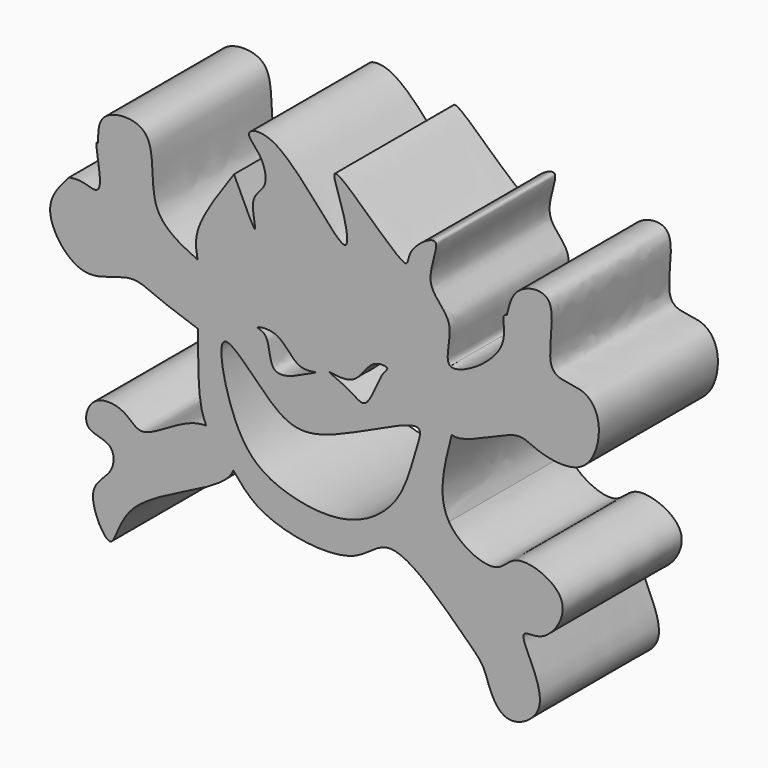
from build123d import *

# Parameters (mm, degrees)
F1_DEPTH = 25.4
F2_DEPTH = 25.4


with BuildPart() as f1:
    # F0 (on Front) → F1 (new body)
    with BuildSketch(Plane.XZ):
        with BuildLine():
            add(Edge.make_bspline(
                [(-28.582599479, 4.4030261133), (-28.911487021, 5.0942899), (-30.0052298315, 7.9022829332), (-29.9955920295, 14.0491369133), (-29.988611117, 18.5014642775)],
                knots=[0.1178498577, 0.1178498577, 0.1178498577, 0.1178498577, 0.3610355427, 1, 1, 1, 1], degree=3))
            add(Edge.make_bspline(
                [(-23.9628069103, -0.8034296916), (-23.1271905646, 1.5314372534), (-25.6319657929, 4.2948866861), (-28.5825994784, 4.4030261149)],
                knots=[0.9068772059, 0.9068772059, 0.9068772059, 0.9068772059, 0.9998219668, 0.9998219668, 0.9998219668, 0.9998219668], degree=3))
            add(Edge.make_bspline(
                [(-23.9628069103, -0.8034296916), (-22.4847151214, -2.6236284733), (-18.9627948515, -6.9607035001), (-2.7068275756, -9.1810662592), (0.7204972747, -3.6050401032), (3.1926396769, -3.8801059127)],
                knots=[0, 0, 0, 0, 0.065562546, 0.1562190262, 0.220557091, 0.220557091, 0.220557091, 0.220557091], degree=3))
            add(Edge.make_bspline(
                [(3.1926396769, -3.8801059127), (6.4148901341, -1.4400628861), (9.6371405913, 0.9999801405), (12.8593910486, 3.4400231671)],
                knots=[0, 0, 0, 0, 12.1256081013, 12.1256081013, 12.1256081013, 12.1256081013], degree=3))
            add(Edge.make_bspline(
                [(12.8593910486, 3.4400231671), (10.7825680091, 6.8989582609), (12.0578283637, 11.7777213579), (13.3330887184, 16.6564844549)],
                knots=[0.9139230876, 0.9139230876, 0.9139230876, 0.9139230876, 1, 1, 1, 1], degree=3))
            add(Edge.make_bspline(
                [(13.3330887184, 16.6564844549), (11.1984371271, 17.4167258477), (12.1384958303, 22.170044938), (13.0785545334, 26.9233640283)],
                knots=[0.8779620342, 0.8779620342, 0.8779620342, 0.8779620342, 1, 1, 1, 1], degree=3))
            add(Edge.make_bspline(
                [(-23.8349661231, 43.7355972826), (-22.1234160519, 40.035275174), (-19.1749737388, 33.6608275544), (-21.4679533769, 41.5475102485), (-17.8278071698, 43.3254765071), (-18.8928188241, 48.1443694392), (-22.7323708409, 51.0421526969), (-15.6297179351, 52.8101505148), (-3.2616201651, 34.2642928372), (-5.0259337502, 44.649058171), (-9.2691896796, 54.0248863547), (6.5308422815, 37.0873913861), (5.4437529608, 42.2651916898), (12.8023722691, 47.2658531715), (7.6834538512, 37.364344669), (14.7537805978, 34.1724137284), (11.9749720842, 27.6298672373), (13.0785545334, 26.9233640283)],
                knots=[0, 0, 0, 0, 0.0659734559, 0.1136507381, 0.1573332044, 0.206142926, 0.2485724992, 0.2968259846, 0.392478722, 0.4473255586, 0.4991821025, 0.5903292506, 0.6248044229, 0.6779176661, 0.7365689993, 0.7958190288, 0.8538262087, 0.8538262087, 0.8538262087, 0.8538262087], degree=3))
            add(Edge.make_bspline(
                [(-30.0719812512, 28.8729276508), (-30.2978460259, 30.1658254111), (-30.9083130621, 33.6602678936), (-26.5688714256, 39.8414016948), (-23.8349661231, 43.7355972826)],
                knots=[0, 0, 0, 0, 0.3699868482, 1, 1, 1, 1], degree=3))
            add(Edge.make_bspline(
                [(-30.0719812512, 28.8729276508), (-30.0441912065, 25.415773193), (-30.0164011618, 21.9586187353), (-29.988611117, 18.5014642775)],
                knots=[0, 0, 0, 0, 10.3717984498, 10.3717984498, 10.3717984498, 10.3717984498], degree=3))
        make_face()
        with BuildLine():
            add(Edge.make_bspline(
                [(-25.4788380116, 18.0652979761), (-24.2482389679, 18.7511528309), (-17.2105382246, 10.114528047), (-9.6740831364, 7.2083109071), (9.5444728611, 18.8378479878), (6.8680885331, 11.7968176965), (5.0221131526, 3.3915421383), (-3.9917236002, -3.3205162606), (-16.3362461319, -1.5181207662), (-23.9208000239, 3.8746005054), (-26.8484679776, 17.3019564425), (-25.4788380116, 18.0652979761)],
                knots=[0, 0, 0, 0, 0.1109125985, 0.2181942629, 0.3644763463, 0.4284646992, 0.5340223955, 0.6463908952, 0.7649285585, 0.8765566906, 1, 1, 1, 1], degree=3))
        make_face(mode=Mode.SUBTRACT)
        with BuildLine():
            add(Edge.make_bspline(
                [(-19.7976548225, 22.0105648041), (-19.7814961527, 22.183479321), (-15.7538623988, 22.979082497), (-13.3980297055, 17.4991987935), (-8.3316390173, 19.0399090443), (-12.7618707406, 17.2537391899), (-13.5908380486, 16.6574633288), (-18.1039968661, 15.4090909316), (-17.5330430956, 21.77203716), (-19.8088858998, 21.8903806343), (-19.7976548225, 22.0105648041)],
                knots=[0, 0, 0, 0, 0.12529807, 0.2971831537, 0.4121645629, 0.5326609759, 0.6257220395, 0.7526580825, 0.9129116237, 1, 1, 1, 1], degree=3))
        make_face(mode=Mode.SUBTRACT)
        with BuildLine():
            add(Edge.make_bspline(
                [(2.2958370391, 23.1152400374), (2.1030435689, 23.3604910785), (-0.8936527624, 23.6355494928), (-2.8085706536, 18.097866935), (-9.7798582845, 20.0003943617), (-3.7836758606, 17.8273615059), (-1.0441252793, 15.0806850733), (1.1089976645, 22.0982189794), (2.4414778783, 22.9299714836), (2.2958370391, 23.1152400374)],
                knots=[0, 0, 0, 0, 0.1161844206, 0.2934352911, 0.4409270275, 0.5911375117, 0.7225059225, 0.9122314854, 1, 1, 1, 1], degree=3))
        make_face(mode=Mode.SUBTRACT)
        with BuildLine():
            add(Edge.make_bspline(
                [(-23.9628069103, -0.8034296916), (-23.1271905646, 1.5314372534), (-25.6319657929, 4.2948866861), (-28.5825994784, 4.4030261149)],
                knots=[0.9068772059, 0.9068772059, 0.9068772059, 0.9068772059, 0.9998219668, 0.9998219668, 0.9998219668, 0.9998219668], degree=3))
            add(Edge.make_bspline(
                [(-28.5825994784, 4.4030261149), (-28.5882513379, 4.4032332531), (-28.5939048334, 4.4034306488), (-28.5995599444, 4.4036182805)],
                knots=[0.9998219668, 0.9998219668, 0.9998219668, 0.9998219668, 1, 1, 1, 1], degree=3))
            add(Edge.make_bspline(
                [(-28.5995599444, 4.4036182805), (-32.4159872528, 4.5302439997), (-39.5312221028, -2.2225854998), (-42.0740894627, 2.4664471475), (-48.3464898377, 3.1083557022), (-50.0265156573, -3.316695786), (-44.2133146194, -3.0713805788), (-44.1799975211, -8.3461361029), (-49.8571373325, -11.1148907182), (-44.1941729271, -21.8883720333), (-43.5478726947, -9.2126358837), (-25.4083383754, -4.8425125235), (-23.9628069103, -0.8034296916)],
                knots=[0, 0, 0, 0, 0.1201480825, 0.1877951212, 0.2677137642, 0.3400222528, 0.4107331107, 0.4780527746, 0.5600081308, 0.6519731782, 0.7460922032, 0.9068772059, 0.9068772059, 0.9068772059, 0.9068772059], degree=3))
        make_face()
        with BuildLine():
            add(Edge.make_bspline(
                [(-29.988611117, 18.5014642775), (-32.4318014786, 19.3267206558), (-36.8978129875, 20.835241867), (-41.7690588713, 23.4533807082), (-49.914200871, 18.3055162376), (-57.3367375081, 28.122026636), (-53.7010795986, 32.1900146088), (-51.9913434982, 34.1030620039)],
                knots=[0, 0, 0, 0, 0.2022869102, 0.3697688412, 0.5786924368, 0.8018722421, 1, 1, 1, 1], degree=3))
            add(Edge.make_bspline(
                [(-30.0719812512, 28.8729276508), (-30.0441912065, 25.415773193), (-30.0164011618, 21.9586187353), (-29.988611117, 18.5014642775)],
                knots=[0, 0, 0, 0, 10.3717984498, 10.3717984498, 10.3717984498, 10.3717984498], degree=3))
            add(Edge.make_bspline(
                [(-47.0578894019, 40.8161431551), (-47.0635076746, 42.562094121), (-47.07580191, 46.3826869267), (-36.2588625889, 46.9625588574), (-39.2627310899, 33.2406538651), (-33.06199153, 30.2938722424), (-30.0719812512, 28.8729276508)],
                knots=[0, 0, 0, 0, 0.196870276, 0.430803141, 0.7255320204, 1, 1, 1, 1], degree=3))
            add(Edge.make_bspline(
                [(-51.9913434982, 34.1030620039), (-51.2417970104, 34.2130384386), (-49.7187310786, 34.4365087152), (-45.4207174884, 32.3698466924), (-47.8243292334, 41.2127143604), (-47.1668561048, 40.8725246934), (-47.0578894019, 40.8161431551)],
                knots=[0, 0, 0, 0, 0.2489720601, 0.5059070635, 0.9181112111, 1, 1, 1, 1], degree=3))
        make_face()
        with BuildLine():
            add(Edge.make_bspline(
                [(3.1926396769, -3.8801059127), (6.4148901341, -1.4400628861), (9.6371405913, 0.9999801405), (12.8593910486, 3.4400231671)],
                knots=[0, 0, 0, 0, 12.1256081013, 12.1256081013, 12.1256081013, 12.1256081013], degree=3))
            add(Edge.make_bspline(
                [(3.1926396769, -3.8801059127), (6.7616772776, -4.2772190465), (15.6851390406, -13.2600327404), (18.8947435255, -16.1037689885), (19.7846499278, -19.8684619524), (22.7850550196, -24.4901905614), (30.8113617578, -19.7693740854), (25.7205518361, -11.3333663481), (25.3358020166, -8.5680816914), (29.4147236184, -9.6887628706), (35.1705948736, -1.195959346), (23.8561206959, 3.1892571316), (21.3813710577, -2.6340719945), (14.568059024, 0.5942479076), (12.8593910486, 3.4400231671)],
                knots=[0.220557091, 0.220557091, 0.220557091, 0.220557091, 0.3134421012, 0.3645454234, 0.4094898172, 0.4591653958, 0.5180827509, 0.5881577264, 0.6197840518, 0.6611552335, 0.7245629334, 0.7926187016, 0.8431048904, 0.9139230876, 0.9139230876, 0.9139230876, 0.9139230876], degree=3))
        make_face()
        with BuildLine():
            add(Edge.make_bspline(
                [(13.0785545334, 26.9233640283), (14.5064774807, 26.0092210522), (23.9603964726, 31.6400403992), (21.629409463, 37.4721388559), (22.506221888, 37.6554682472), (22.7397531271, 37.7042964101)],
                knots=[0.8538262087, 0.8538262087, 0.8538262087, 0.8538262087, 0.9288815736, 0.9810582358, 1, 1, 1, 1], degree=3))
            add(Edge.make_bspline(
                [(13.3330887184, 16.6564844549), (11.1984371271, 17.4167258477), (12.1384958303, 22.170044938), (13.0785545334, 26.9233640283)],
                knots=[0.8779620342, 0.8779620342, 0.8779620342, 0.8779620342, 1, 1, 1, 1], degree=3))
            add(Edge.make_bspline(
                [(22.7397531271, 37.7042964101), (23.1357953088, 39.4418009547), (23.921419911, 42.8884699713), (32.5413952836, 44.10398542), (28.0081552157, 30.0763669909), (36.3101337873, 31.5250508533), (39.4578196622, 26.1428454393), (36.5470456063, 17.0719122464), (27.2628689451, 18.9625275082), (24.3693947813, 21.4747220023), (15.552756228, 15.865965231), (13.3330887184, 16.6564844549)],
                knots=[0, 0, 0, 0, 0.085630468, 0.1698642354, 0.290058632, 0.3780578218, 0.4653372905, 0.5707828182, 0.6761612965, 0.7510637111, 0.8779620342, 0.8779620342, 0.8779620342, 0.8779620342], degree=3))
        make_face()
    extrude(amount=F1_DEPTH)

    # F0 (on Front) → F2 (join)
    with BuildSketch(Plane.XZ):
        with BuildLine():
            add(Edge.make_bspline(
                [(-28.582599479, 4.4030261133), (-28.911487021, 5.0942899), (-30.0052298315, 7.9022829332), (-29.9955920295, 14.0491369133), (-29.988611117, 18.5014642775)],
                knots=[0.1178498577, 0.1178498577, 0.1178498577, 0.1178498577, 0.3610355427, 1, 1, 1, 1], degree=3))
            add(Edge.make_bspline(
                [(-23.9628069103, -0.8034296916), (-23.1271905646, 1.5314372534), (-25.6319657929, 4.2948866861), (-28.5825994784, 4.4030261149)],
                knots=[0.9068772059, 0.9068772059, 0.9068772059, 0.9068772059, 0.9998219668, 0.9998219668, 0.9998219668, 0.9998219668], degree=3))
            add(Edge.make_bspline(
                [(-23.9628069103, -0.8034296916), (-22.4847151214, -2.6236284733), (-18.9627948515, -6.9607035001), (-2.7068275756, -9.1810662592), (0.7204972747, -3.6050401032), (3.1926396769, -3.8801059127)],
                knots=[0, 0, 0, 0, 0.065562546, 0.1562190262, 0.220557091, 0.220557091, 0.220557091, 0.220557091], degree=3))
            add(Edge.make_bspline(
                [(3.1926396769, -3.8801059127), (6.4148901341, -1.4400628861), (9.6371405913, 0.9999801405), (12.8593910486, 3.4400231671)],
                knots=[0, 0, 0, 0, 12.1256081013, 12.1256081013, 12.1256081013, 12.1256081013], degree=3))
            add(Edge.make_bspline(
                [(12.8593910486, 3.4400231671), (10.7825680091, 6.8989582609), (12.0578283637, 11.7777213579), (13.3330887184, 16.6564844549)],
                knots=[0.9139230876, 0.9139230876, 0.9139230876, 0.9139230876, 1, 1, 1, 1], degree=3))
            add(Edge.make_bspline(
                [(13.3330887184, 16.6564844549), (11.1984371271, 17.4167258477), (12.1384958303, 22.170044938), (13.0785545334, 26.9233640283)],
                knots=[0.8779620342, 0.8779620342, 0.8779620342, 0.8779620342, 1, 1, 1, 1], degree=3))
            add(Edge.make_bspline(
                [(-23.8349661231, 43.7355972826), (-22.1234160519, 40.035275174), (-19.1749737388, 33.6608275544), (-21.4679533769, 41.5475102485), (-17.8278071698, 43.3254765071), (-18.8928188241, 48.1443694392), (-22.7323708409, 51.0421526969), (-15.6297179351, 52.8101505148), (-3.2616201651, 34.2642928372), (-5.0259337502, 44.649058171), (-9.2691896796, 54.0248863547), (6.5308422815, 37.0873913861), (5.4437529608, 42.2651916898), (12.8023722691, 47.2658531715), (7.6834538512, 37.364344669), (14.7537805978, 34.1724137284), (11.9749720842, 27.6298672373), (13.0785545334, 26.9233640283)],
                knots=[0, 0, 0, 0, 0.0659734559, 0.1136507381, 0.1573332044, 0.206142926, 0.2485724992, 0.2968259846, 0.392478722, 0.4473255586, 0.4991821025, 0.5903292506, 0.6248044229, 0.6779176661, 0.7365689993, 0.7958190288, 0.8538262087, 0.8538262087, 0.8538262087, 0.8538262087], degree=3))
            add(Edge.make_bspline(
                [(-30.0719812512, 28.8729276508), (-30.2978460259, 30.1658254111), (-30.9083130621, 33.6602678936), (-26.5688714256, 39.8414016948), (-23.8349661231, 43.7355972826)],
                knots=[0, 0, 0, 0, 0.3699868482, 1, 1, 1, 1], degree=3))
            add(Edge.make_bspline(
                [(-30.0719812512, 28.8729276508), (-30.0441912065, 25.415773193), (-30.0164011618, 21.9586187353), (-29.988611117, 18.5014642775)],
                knots=[0, 0, 0, 0, 10.3717984498, 10.3717984498, 10.3717984498, 10.3717984498], degree=3))
        make_face()
        with BuildLine():
            add(Edge.make_bspline(
                [(-25.4788380116, 18.0652979761), (-24.2482389679, 18.7511528309), (-17.2105382246, 10.114528047), (-9.6740831364, 7.2083109071), (9.5444728611, 18.8378479878), (6.8680885331, 11.7968176965), (5.0221131526, 3.3915421383), (-3.9917236002, -3.3205162606), (-16.3362461319, -1.5181207662), (-23.9208000239, 3.8746005054), (-26.8484679776, 17.3019564425), (-25.4788380116, 18.0652979761)],
                knots=[0, 0, 0, 0, 0.1109125985, 0.2181942629, 0.3644763463, 0.4284646992, 0.5340223955, 0.6463908952, 0.7649285585, 0.8765566906, 1, 1, 1, 1], degree=3))
        make_face(mode=Mode.SUBTRACT)
        with BuildLine():
            add(Edge.make_bspline(
                [(-19.7976548225, 22.0105648041), (-19.7814961527, 22.183479321), (-15.7538623988, 22.979082497), (-13.3980297055, 17.4991987935), (-8.3316390173, 19.0399090443), (-12.7618707406, 17.2537391899), (-13.5908380486, 16.6574633288), (-18.1039968661, 15.4090909316), (-17.5330430956, 21.77203716), (-19.8088858998, 21.8903806343), (-19.7976548225, 22.0105648041)],
                knots=[0, 0, 0, 0, 0.12529807, 0.2971831537, 0.4121645629, 0.5326609759, 0.6257220395, 0.7526580825, 0.9129116237, 1, 1, 1, 1], degree=3))
        make_face(mode=Mode.SUBTRACT)
        with BuildLine():
            add(Edge.make_bspline(
                [(2.2958370391, 23.1152400374), (2.1030435689, 23.3604910785), (-0.8936527624, 23.6355494928), (-2.8085706536, 18.097866935), (-9.7798582845, 20.0003943617), (-3.7836758606, 17.8273615059), (-1.0441252793, 15.0806850733), (1.1089976645, 22.0982189794), (2.4414778783, 22.9299714836), (2.2958370391, 23.1152400374)],
                knots=[0, 0, 0, 0, 0.1161844206, 0.2934352911, 0.4409270275, 0.5911375117, 0.7225059225, 0.9122314854, 1, 1, 1, 1], degree=3))
        make_face(mode=Mode.SUBTRACT)
        with BuildLine():
            add(Edge.make_bspline(
                [(-23.9628069103, -0.8034296916), (-23.1271905646, 1.5314372534), (-25.6319657929, 4.2948866861), (-28.5825994784, 4.4030261149)],
                knots=[0.9068772059, 0.9068772059, 0.9068772059, 0.9068772059, 0.9998219668, 0.9998219668, 0.9998219668, 0.9998219668], degree=3))
            add(Edge.make_bspline(
                [(-28.5825994784, 4.4030261149), (-28.5882513379, 4.4032332531), (-28.5939048334, 4.4034306488), (-28.5995599444, 4.4036182805)],
                knots=[0.9998219668, 0.9998219668, 0.9998219668, 0.9998219668, 1, 1, 1, 1], degree=3))
            add(Edge.make_bspline(
                [(-28.5995599444, 4.4036182805), (-32.4159872528, 4.5302439997), (-39.5312221028, -2.2225854998), (-42.0740894627, 2.4664471475), (-48.3464898377, 3.1083557022), (-50.0265156573, -3.316695786), (-44.2133146194, -3.0713805788), (-44.1799975211, -8.3461361029), (-49.8571373325, -11.1148907182), (-44.1941729271, -21.8883720333), (-43.5478726947, -9.2126358837), (-25.4083383754, -4.8425125235), (-23.9628069103, -0.8034296916)],
                knots=[0, 0, 0, 0, 0.1201480825, 0.1877951212, 0.2677137642, 0.3400222528, 0.4107331107, 0.4780527746, 0.5600081308, 0.6519731782, 0.7460922032, 0.9068772059, 0.9068772059, 0.9068772059, 0.9068772059], degree=3))
        make_face()
        with BuildLine():
            add(Edge.make_bspline(
                [(-29.988611117, 18.5014642775), (-32.4318014786, 19.3267206558), (-36.8978129875, 20.835241867), (-41.7690588713, 23.4533807082), (-49.914200871, 18.3055162376), (-57.3367375081, 28.122026636), (-53.7010795986, 32.1900146088), (-51.9913434982, 34.1030620039)],
                knots=[0, 0, 0, 0, 0.2022869102, 0.3697688412, 0.5786924368, 0.8018722421, 1, 1, 1, 1], degree=3))
            add(Edge.make_bspline(
                [(-30.0719812512, 28.8729276508), (-30.0441912065, 25.415773193), (-30.0164011618, 21.9586187353), (-29.988611117, 18.5014642775)],
                knots=[0, 0, 0, 0, 10.3717984498, 10.3717984498, 10.3717984498, 10.3717984498], degree=3))
            add(Edge.make_bspline(
                [(-47.0578894019, 40.8161431551), (-47.0635076746, 42.562094121), (-47.07580191, 46.3826869267), (-36.2588625889, 46.9625588574), (-39.2627310899, 33.2406538651), (-33.06199153, 30.2938722424), (-30.0719812512, 28.8729276508)],
                knots=[0, 0, 0, 0, 0.196870276, 0.430803141, 0.7255320204, 1, 1, 1, 1], degree=3))
            add(Edge.make_bspline(
                [(-51.9913434982, 34.1030620039), (-51.2417970104, 34.2130384386), (-49.7187310786, 34.4365087152), (-45.4207174884, 32.3698466924), (-47.8243292334, 41.2127143604), (-47.1668561048, 40.8725246934), (-47.0578894019, 40.8161431551)],
                knots=[0, 0, 0, 0, 0.2489720601, 0.5059070635, 0.9181112111, 1, 1, 1, 1], degree=3))
        make_face()
        with BuildLine():
            add(Edge.make_bspline(
                [(3.1926396769, -3.8801059127), (6.4148901341, -1.4400628861), (9.6371405913, 0.9999801405), (12.8593910486, 3.4400231671)],
                knots=[0, 0, 0, 0, 12.1256081013, 12.1256081013, 12.1256081013, 12.1256081013], degree=3))
            add(Edge.make_bspline(
                [(3.1926396769, -3.8801059127), (6.7616772776, -4.2772190465), (15.6851390406, -13.2600327404), (18.8947435255, -16.1037689885), (19.7846499278, -19.8684619524), (22.7850550196, -24.4901905614), (30.8113617578, -19.7693740854), (25.7205518361, -11.3333663481), (25.3358020166, -8.5680816914), (29.4147236184, -9.6887628706), (35.1705948736, -1.195959346), (23.8561206959, 3.1892571316), (21.3813710577, -2.6340719945), (14.568059024, 0.5942479076), (12.8593910486, 3.4400231671)],
                knots=[0.220557091, 0.220557091, 0.220557091, 0.220557091, 0.3134421012, 0.3645454234, 0.4094898172, 0.4591653958, 0.5180827509, 0.5881577264, 0.6197840518, 0.6611552335, 0.7245629334, 0.7926187016, 0.8431048904, 0.9139230876, 0.9139230876, 0.9139230876, 0.9139230876], degree=3))
        make_face()
        with BuildLine():
            add(Edge.make_bspline(
                [(13.0785545334, 26.9233640283), (14.5064774807, 26.0092210522), (23.9603964726, 31.6400403992), (21.629409463, 37.4721388559), (22.506221888, 37.6554682472), (22.7397531271, 37.7042964101)],
                knots=[0.8538262087, 0.8538262087, 0.8538262087, 0.8538262087, 0.9288815736, 0.9810582358, 1, 1, 1, 1], degree=3))
            add(Edge.make_bspline(
                [(13.3330887184, 16.6564844549), (11.1984371271, 17.4167258477), (12.1384958303, 22.170044938), (13.0785545334, 26.9233640283)],
                knots=[0.8779620342, 0.8779620342, 0.8779620342, 0.8779620342, 1, 1, 1, 1], degree=3))
            add(Edge.make_bspline(
                [(22.7397531271, 37.7042964101), (23.1357953088, 39.4418009547), (23.921419911, 42.8884699713), (32.5413952836, 44.10398542), (28.0081552157, 30.0763669909), (36.3101337873, 31.5250508533), (39.4578196622, 26.1428454393), (36.5470456063, 17.0719122464), (27.2628689451, 18.9625275082), (24.3693947813, 21.4747220023), (15.552756228, 15.865965231), (13.3330887184, 16.6564844549)],
                knots=[0, 0, 0, 0, 0.085630468, 0.1698642354, 0.290058632, 0.3780578218, 0.4653372905, 0.5707828182, 0.6761612965, 0.7510637111, 0.8779620342, 0.8779620342, 0.8779620342, 0.8779620342], degree=3))
        make_face()
    extrude(amount=F2_DEPTH)


solid = f1.part
